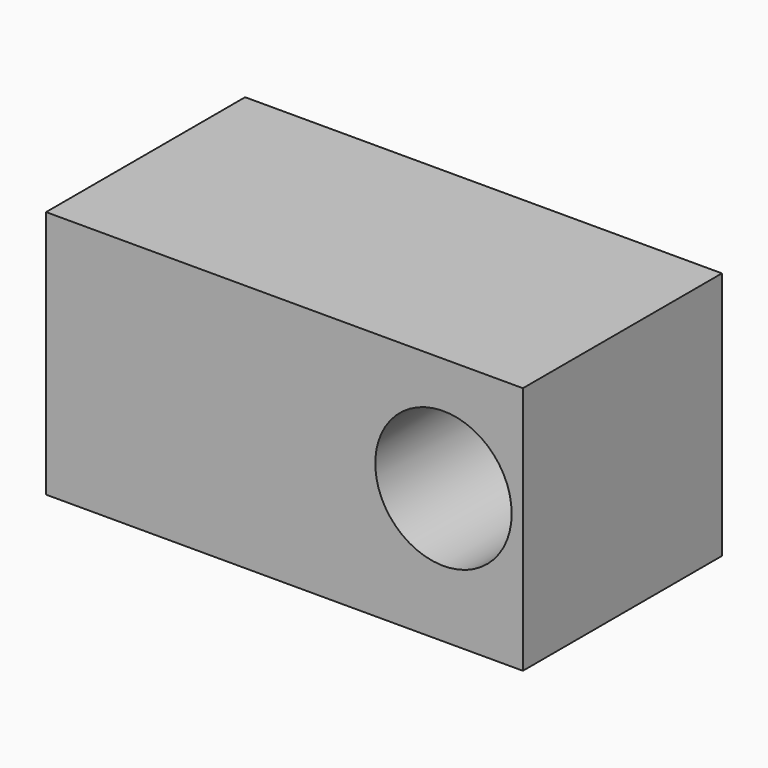
from build123d import *

# Parameters (mm, degrees)
F0_W     = 146.05
F0_H     = 76.2
F2_DEPTH = 76.2
F3_R     = 20.887507
F4_DEPTH = 76.2
F1_W     = 25.4
F1_H     = 25.4
F5_DEPTH = 76.2


with BuildPart() as f2:
    # F0 (on Front) → F2 (new body)
    with BuildSketch(Plane.XZ):
        with Locations((-20.51247, 13.275895)):
            Rectangle(F0_W, F0_H)
    extrude(amount=F2_DEPTH)

    # F3 (on face) → F4 (cut)
    with BuildSketch(Plane.XZ):
        with Locations((28.185513, 16.4221)):
            Circle(F3_R)
    extrude(amount=F4_DEPTH, mode=Mode.SUBTRACT)

    # F1 (on face) → F5 (join)
    with BuildSketch(Plane.XZ):
        with Locations((-52.30484, 12.7)):
            Rectangle(F1_W, F1_H)
    extrude(amount=F5_DEPTH)


solid = f2.part
